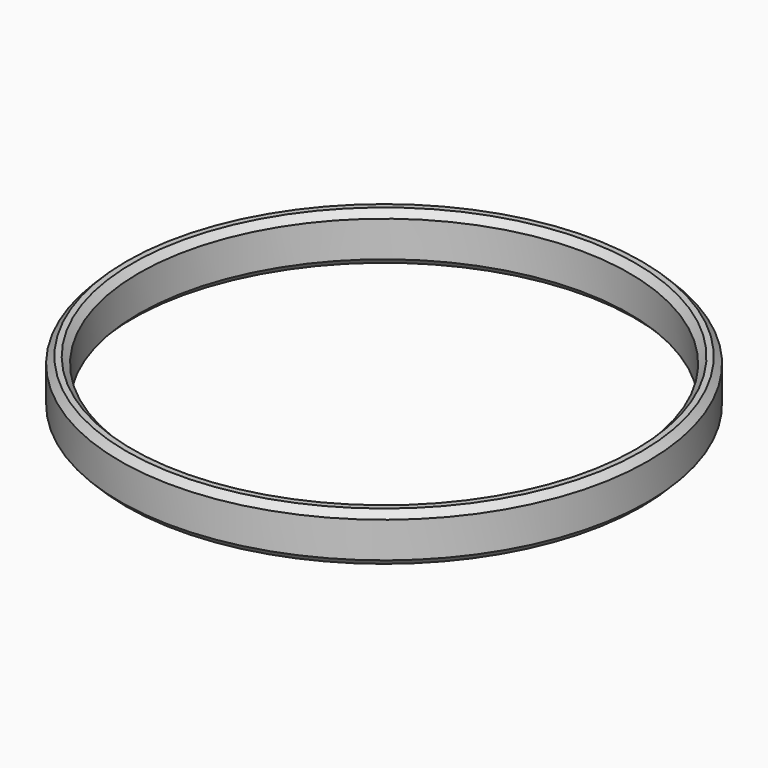
from build123d import *

# Parameters (mm, degrees)
F0_R     = 16.25
F1_DEPTH = 3
F2_R     = 15.1
F3_DEPTH = 3.001
F4_SIZE  = 0.4
F5_SIZE  = 0.4


with BuildPart() as f1:
    # F0 (on Top) → F1 (new body)
    with BuildSketch(Plane.XY):
        Circle(F0_R)
    extrude(amount=F1_DEPTH)

    # F2 (on face) → F3 (cut, through all)
    with BuildSketch(Plane.XY.offset(3)):
        Circle(F2_R)
    extrude(amount=-F3_DEPTH, mode=Mode.SUBTRACT)

    # F4
    f4_edges = [f1.edges().sort_by_distance(p)[0] for p in [
        (-15.1, 0, 3),
        (-15.1, 0, 0),
    ]]
    chamfer(f4_edges, length=F4_SIZE)

    # F5
    f5_edges = [f1.edges().sort_by_distance(p)[0] for p in [
        (-16.25, 0, 0),
        (-16.25, 0, 3),
    ]]
    chamfer(f5_edges, length=F5_SIZE)


solid = f1.part
